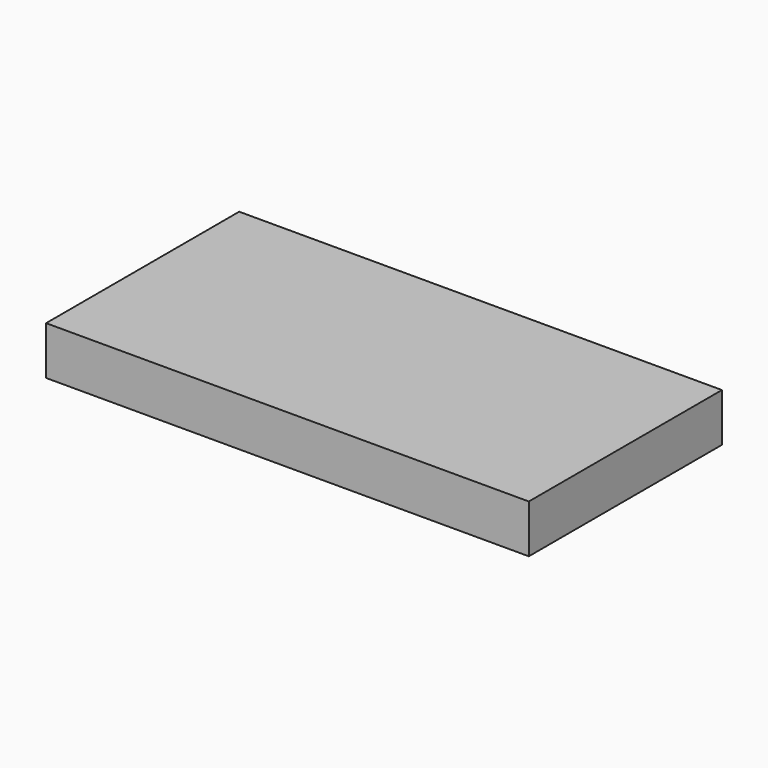
from build123d import *

# Parameters (mm, degrees)
SKETCH_W         = 40
SKETCH_H         = 20
EXTRUDE_DEPTH    = 4
EXTRUDE001_DEPTH = 4


with BuildPart() as extrude_body:
    # Sketch → Extrude (new body)
    with BuildSketch(Plane.XY):
        with Locations((20, 10)):
            Rectangle(SKETCH_W, SKETCH_H)
    extrude(amount=EXTRUDE_DEPTH)


with BuildPart() as extrude001:
    # Sketch → Extrude001 (new body)
    with BuildSketch(Plane.XY):
        with Locations((20, 10)):
            Rectangle(SKETCH_W, SKETCH_H)
    extrude(amount=EXTRUDE001_DEPTH)


solid = Compound([extrude_body.part, extrude001.part])
